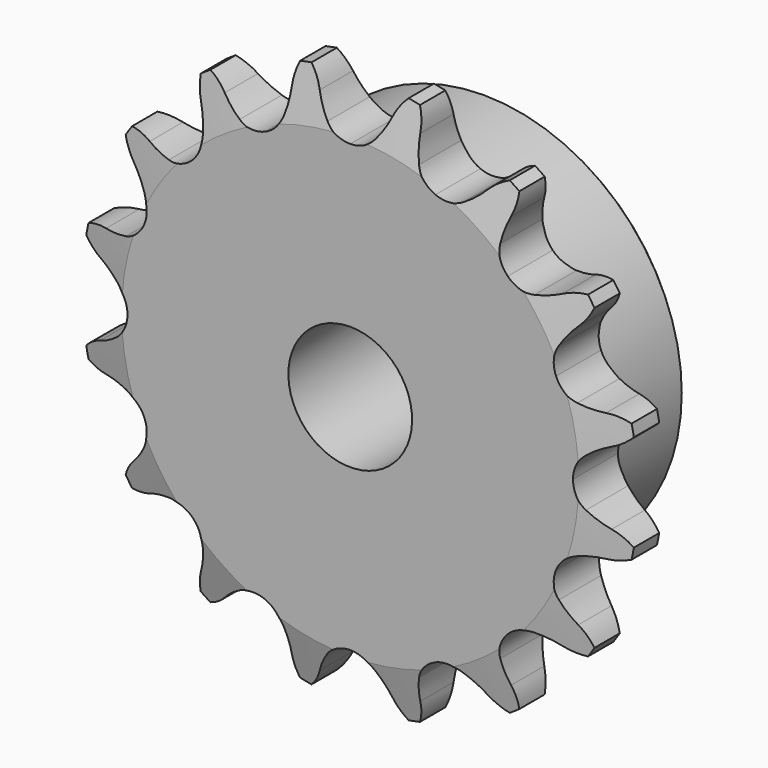
from build123d import *

# Parameters (mm, degrees)
F0_W     = 7.2136
F0_H     = 10.287
F0_H_2   = 17.4625
F0_W_2   = 15.0114
F2_R     = 1.5875
F3_SIZE  = 0.79375
F4_SIZE2 = 6.35
F4_SIZE  = 1.5748
F6_DEPTH = 22.226


with BuildPart() as f1:
    # F0 (on Right) → F1 (revolve)
    with BuildSketch(Plane.YZ):
        with Locations((3.6068, 30.5435)):
            Rectangle(F0_W, F0_H)
        with Locations((3.6068, 16.66875)):
            Rectangle(F0_W, F0_H_2)
        with Locations((14.7193, 16.66875)):
            Rectangle(F0_W_2, F0_H_2)
    revolve(axis=Axis((0, 13.3716339959, 0), (0, 1, 0)))

    # F2
    f2_edges = [f1.edges().sort_by_distance(p)[0] for p in [
        (0, 7.2136, -25.4),
    ]]
    fillet(f2_edges, radius=F2_R)

    # F3
    f3_edges = [f1.edges().sort_by_distance(p)[0] for p in [
        (0, 22.225, -25.4),
    ]]
    chamfer(f3_edges, length=F3_SIZE)

    # F4
    f4_edges = [f1.edges().sort_by_distance(p)[0] for p in [
        (0, 7.2136, -35.687),
        (0, 0, -35.687),
        (0, 3.6068, 35.687),
    ]]
    f4_side = f1.faces().sort_by_distance((0, 3.6068, -35.687))[0]
    chamfer(f4_edges, length=F4_SIZE, length2=F4_SIZE2, reference=f4_side)

    # F5 (on face) → F6 (intersect, through all)
    with BuildSketch(Plane.XZ):
        with BuildLine():
            ThreePointArc((-3.0902142758, 30.0699408338), (-3.979553364, 31.369101674), (-4.6618278881, 32.7879901038))
            ThreePointArc((-4.6618278881, 32.7879901038), (-5.6620741543, 34.517563849), (-7.1345852087, 35.8679819796))
            ThreePointArc((-7.1345852087, 35.8679819796), (-7.9782253879, 34.0568527239), (-8.2404532234, 32.0761572664))
            ThreePointArc((-8.2404532234, 32.0761572664), (-8.3278075972, 30.5041801305), (-8.6522824488, 28.963576686))
            ThreePointArc((-8.6522824488, 28.963576686), (-9.5059695707, 27.4274385627), (-10.9400391594, 26.4115909116))
            ThreePointArc((-10.9400391594, 26.4115909116), (-12.6723922531, 26.1158633434), (-14.3622538898, 26.5984290744))
            ThreePointArc((-14.3622538898, 26.5984290744), (-15.6810634004, 27.4583618492), (-16.8543879632, 28.5081486718))
            ThreePointArc((-16.8543879632, 28.5081486718), (-18.4403742333, 29.7232887806), (-20.3175797032, 30.4074068672))
            ThreePointArc((-20.3175797032, 30.4074068672), (-20.4039124376, 28.4112944977), (-19.8882000315, 26.4810202563))
            ThreePointArc((-19.8882000315, 26.4810202563), (-19.3673353436, 24.9952736832), (-19.0775476037, 23.4477705432))
            ThreePointArc((-19.0775476037, 23.4477705432), (-19.2783970532, 21.7018720541), (-20.2145565285, 20.2145565285))
            ThreePointArc((-20.2145565285, 20.2145565285), (-21.7018720541, 19.2783970532), (-23.4477705432, 19.0775476037))
            ThreePointArc((-23.4477705432, 19.0775476037), (-24.9952736832, 19.3673353436), (-26.4810202563, 19.8882000315))
            ThreePointArc((-26.4810202563, 19.8882000315), (-28.4112944977, 20.4039124376), (-30.4074068672, 20.3175797032))
            ThreePointArc((-30.4074068672, 20.3175797032), (-29.7232887806, 18.4403742333), (-28.5081486718, 16.8543879632))
            ThreePointArc((-28.5081486718, 16.8543879632), (-27.4583618492, 15.6810634004), (-26.5984290744, 14.3622538898))
            ThreePointArc((-26.5984290744, 14.3622538898), (-26.1158633434, 12.6723922531), (-26.4115909116, 10.9400391594))
            ThreePointArc((-26.4115909116, 10.9400391594), (-27.4274385627, 9.5059695707), (-28.963576686, 8.6522824488))
            ThreePointArc((-28.963576686, 8.6522824488), (-30.5041801305, 8.3278075972), (-32.0761572664, 8.2404532234))
            ThreePointArc((-32.0761572664, 8.2404532234), (-34.0568527239, 7.9782253879), (-35.8679819796, 7.1345852087))
            ThreePointArc((-35.8679819796, 7.1345852087), (-34.517563849, 5.6620741543), (-32.7879901038, 4.6618278881))
            ThreePointArc((-32.7879901038, 4.6618278881), (-31.369101674, 3.979553364), (-30.0699408338, 3.0902142758))
            ThreePointArc((-30.0699408338, 3.0902142758), (-28.9774261806, 1.7136556072), (-28.5877, 0))
            ThreePointArc((-28.5877, 0), (-28.9774261806, -1.7136556072), (-30.0699408338, -3.0902142758))
            ThreePointArc((-30.0699408338, -3.0902142758), (-31.369101674, -3.979553364), (-32.7879901038, -4.6618278881))
            ThreePointArc((-32.7879901038, -4.6618278881), (-34.517563849, -5.6620741543), (-35.8679819796, -7.1345852087))
            ThreePointArc((-35.8679819796, -7.1345852087), (-34.0568527239, -7.9782253879), (-32.0761572664, -8.2404532234))
            ThreePointArc((-32.0761572664, -8.2404532234), (-30.5041801305, -8.3278075972), (-28.963576686, -8.6522824488))
            ThreePointArc((-28.963576686, -8.6522824488), (-27.4274385627, -9.5059695707), (-26.4115909116, -10.9400391594))
            ThreePointArc((-26.4115909116, -10.9400391594), (-26.1158633434, -12.6723922531), (-26.5984290744, -14.3622538898))
            ThreePointArc((-26.5984290744, -14.3622538898), (-27.4583618492, -15.6810634004), (-28.5081486718, -16.8543879632))
            ThreePointArc((-28.5081486718, -16.8543879632), (-29.7232887806, -18.4403742333), (-30.4074068672, -20.3175797032))
            ThreePointArc((-30.4074068672, -20.3175797032), (-28.4112944977, -20.4039124376), (-26.4810202563, -19.8882000315))
            ThreePointArc((-26.4810202563, -19.8882000315), (-24.9952736832, -19.3673353436), (-23.4477705432, -19.0775476037))
            ThreePointArc((-23.4477705432, -19.0775476037), (-21.7018720541, -19.2783970532), (-20.2145565285, -20.2145565285))
            ThreePointArc((-20.2145565285, -20.2145565285), (-19.2783970532, -21.7018720541), (-19.0775476037, -23.4477705432))
            ThreePointArc((-19.0775476037, -23.4477705432), (-19.3673353436, -24.9952736832), (-19.8882000315, -26.4810202563))
            ThreePointArc((-19.8882000315, -26.4810202563), (-20.4039124376, -28.4112944977), (-20.3175797032, -30.4074068672))
            ThreePointArc((-20.3175797032, -30.4074068672), (-18.4403742333, -29.7232887806), (-16.8543879632, -28.5081486718))
            ThreePointArc((-16.8543879632, -28.5081486718), (-15.6810634004, -27.4583618492), (-14.3622538898, -26.5984290744))
            ThreePointArc((-14.3622538898, -26.5984290744), (-12.6723922531, -26.1158633434), (-10.9400391594, -26.4115909116))
            ThreePointArc((-10.9400391594, -26.4115909116), (-9.5059695707, -27.4274385627), (-8.6522824488, -28.963576686))
            ThreePointArc((-8.6522824488, -28.963576686), (-8.3278075972, -30.5041801305), (-8.2404532234, -32.0761572664))
            ThreePointArc((-8.2404532234, -32.0761572664), (-7.9782253879, -34.0568527239), (-7.1345852087, -35.8679819796))
            ThreePointArc((-7.1345852087, -35.8679819796), (-5.6620741543, -34.517563849), (-4.6618278881, -32.7879901038))
            ThreePointArc((-4.6618278881, -32.7879901038), (-3.979553364, -31.369101674), (-3.0902142758, -30.0699408338))
            ThreePointArc((-3.0902142758, -30.0699408338), (-1.7136556072, -28.9774261806), (0, -28.5877))
            ThreePointArc((0, -28.5877), (1.7136556072, -28.9774261806), (3.0902142758, -30.0699408338))
            ThreePointArc((3.0902142758, -30.0699408338), (3.979553364, -31.369101674), (4.6618278881, -32.7879901038))
            ThreePointArc((4.6618278881, -32.7879901038), (5.6620741543, -34.517563849), (7.1345852087, -35.8679819796))
            ThreePointArc((7.1345852087, -35.8679819796), (7.9782253879, -34.0568527239), (8.2404532234, -32.0761572664))
            ThreePointArc((8.2404532234, -32.0761572664), (8.3278075972, -30.5041801305), (8.6522824488, -28.963576686))
            ThreePointArc((8.6522824488, -28.963576686), (9.5059695707, -27.4274385627), (10.9400391594, -26.4115909116))
            ThreePointArc((10.9400391594, -26.4115909116), (12.6723922531, -26.1158633434), (14.3622538898, -26.5984290744))
            ThreePointArc((14.3622538898, -26.5984290744), (15.6810634004, -27.4583618492), (16.8543879632, -28.5081486718))
            ThreePointArc((16.8543879632, -28.5081486718), (18.4403742333, -29.7232887806), (20.3175797032, -30.4074068672))
            ThreePointArc((20.3175797032, -30.4074068672), (20.4039124376, -28.4112944977), (19.8882000315, -26.4810202563))
            ThreePointArc((19.8882000315, -26.4810202563), (19.3673353436, -24.9952736832), (19.0775476037, -23.4477705432))
            ThreePointArc((19.0775476037, -23.4477705432), (19.2783970532, -21.7018720541), (20.2145565285, -20.2145565285))
            ThreePointArc((20.2145565285, -20.2145565285), (21.7018720541, -19.2783970532), (23.4477705432, -19.0775476037))
            ThreePointArc((23.4477705432, -19.0775476037), (24.9952736832, -19.3673353436), (26.4810202563, -19.8882000315))
            ThreePointArc((26.4810202563, -19.8882000315), (28.4112944977, -20.4039124376), (30.4074068672, -20.3175797032))
            ThreePointArc((30.4074068672, -20.3175797032), (29.7232887806, -18.4403742333), (28.5081486718, -16.8543879632))
            ThreePointArc((28.5081486718, -16.8543879632), (27.4583618492, -15.6810634004), (26.5984290744, -14.3622538898))
            ThreePointArc((26.5984290744, -14.3622538898), (26.1158633434, -12.6723922531), (26.4115909116, -10.9400391594))
            ThreePointArc((26.4115909116, -10.9400391594), (27.4274385627, -9.5059695707), (28.963576686, -8.6522824488))
            ThreePointArc((28.963576686, -8.6522824488), (30.5041801305, -8.3278075972), (32.0761572664, -8.2404532234))
            ThreePointArc((32.0761572664, -8.2404532234), (34.0568527239, -7.9782253879), (35.8679819796, -7.1345852087))
            ThreePointArc((35.8679819796, -7.1345852087), (34.517563849, -5.6620741543), (32.7879901038, -4.6618278881))
            ThreePointArc((32.7879901038, -4.6618278881), (31.369101674, -3.979553364), (30.0699408338, -3.0902142758))
            ThreePointArc((30.0699408338, -3.0902142758), (28.9774261806, -1.7136556072), (28.5877, 0))
            ThreePointArc((28.5877, 0), (28.9774261806, 1.7136556072), (30.0699408338, 3.0902142758))
            ThreePointArc((30.0699408338, 3.0902142758), (31.369101674, 3.979553364), (32.7879901038, 4.6618278881))
            ThreePointArc((32.7879901038, 4.6618278881), (34.517563849, 5.6620741543), (35.8679819796, 7.1345852087))
            ThreePointArc((35.8679819796, 7.1345852087), (34.0568527239, 7.9782253879), (32.0761572664, 8.2404532234))
            ThreePointArc((32.0761572664, 8.2404532234), (30.5041801305, 8.3278075972), (28.963576686, 8.6522824488))
            ThreePointArc((28.963576686, 8.6522824488), (27.4274385627, 9.5059695707), (26.4115909116, 10.9400391594))
            ThreePointArc((26.4115909116, 10.9400391594), (26.1158633434, 12.6723922531), (26.5984290744, 14.3622538898))
            ThreePointArc((26.5984290744, 14.3622538898), (27.4583618492, 15.6810634004), (28.5081486718, 16.8543879632))
            ThreePointArc((28.5081486718, 16.8543879632), (29.7232887806, 18.4403742333), (30.4074068672, 20.3175797032))
            ThreePointArc((30.4074068672, 20.3175797032), (28.4112944977, 20.4039124376), (26.4810202563, 19.8882000315))
            ThreePointArc((26.4810202563, 19.8882000315), (24.9952736832, 19.3673353436), (23.4477705432, 19.0775476037))
            ThreePointArc((23.4477705432, 19.0775476037), (21.7018720541, 19.2783970532), (20.2145565285, 20.2145565285))
            ThreePointArc((20.2145565285, 20.2145565285), (19.2783970532, 21.7018720541), (19.0775476037, 23.4477705432))
            ThreePointArc((19.0775476037, 23.4477705432), (19.3673353436, 24.9952736832), (19.8882000315, 26.4810202563))
            ThreePointArc((19.8882000315, 26.4810202563), (20.4039124376, 28.4112944977), (20.3175797032, 30.4074068672))
            ThreePointArc((20.3175797032, 30.4074068672), (18.4403742333, 29.7232887806), (16.8543879632, 28.5081486718))
            ThreePointArc((16.8543879632, 28.5081486718), (15.6810634004, 27.4583618492), (14.3622538898, 26.5984290744))
            ThreePointArc((14.3622538898, 26.5984290744), (12.6723922531, 26.1158633434), (10.9400391594, 26.4115909116))
            ThreePointArc((10.9400391594, 26.4115909116), (9.5059695707, 27.4274385627), (8.6522824488, 28.963576686))
            ThreePointArc((8.6522824488, 28.963576686), (8.3278075972, 30.5041801305), (8.2404532234, 32.0761572664))
            ThreePointArc((8.2404532234, 32.0761572664), (7.9782253879, 34.0568527239), (7.1345852087, 35.8679819796))
            ThreePointArc((7.1345852087, 35.8679819796), (5.6620741543, 34.517563849), (4.6618278881, 32.7879901038))
            ThreePointArc((4.6618278881, 32.7879901038), (3.979553364, 31.369101674), (3.0902142758, 30.0699408338))
            ThreePointArc((3.0902142758, 30.0699408338), (1.7136556072, 28.9774261806), (0, 28.5877))
            ThreePointArc((0, 28.5877), (-1.7136556072, 28.9774261806), (-3.0902142758, 30.0699408338))
        make_face()
    extrude(amount=-F6_DEPTH, mode=Mode.INTERSECT)


solid = f1.part
